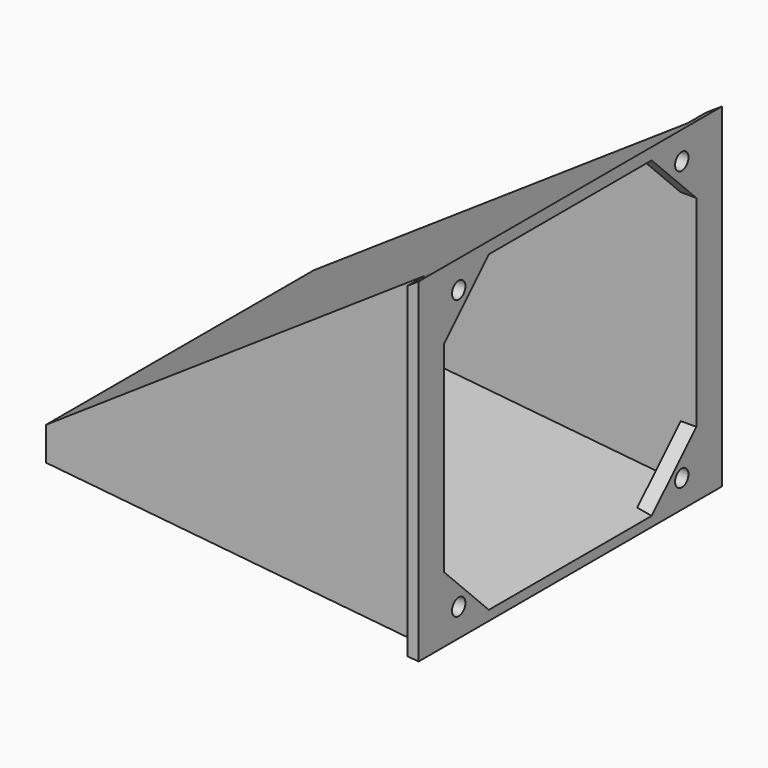
from build123d import *

# Parameters (mm, degrees)
F1_DEPTH  = 60
F2_T      = -1.75
F4_DEPTH  = 2.8
F5_R      = 1.5
F6_DEPTH  = 3
F8_DEPTH  = 4
F10_DEPTH = 4


with BuildPart() as f1:
    # F0 (on Front) → F1 (new body)
    with BuildSketch(Plane.XZ):
        Polygon((0, 50), (-70, 3), (-70, -3), (0, -10), align=None)
    extrude(amount=F1_DEPTH)

    # F2
    f2_openings = [f1.faces().sort_by_distance(p)[0] for p in [
        (0, -30, 20),
        (-70, -30, 0),
    ]]
    offset(amount=F2_T, openings=f2_openings)

    # F3 (on face) → F4 (join)
    with BuildSketch(Plane.YZ):
        Polygon((-58.25, 37.892128), (-48.25, 47.892128), (-58.25, 47.892128), align=None)
        Polygon((-1.75, 47.892128), (-11.75, 47.892128), (-1.75, 37.892128), align=None)
        Polygon((-48.25, -8.241272), (-58.25, 1.758728), (-58.25, -8.241272), align=None)
        Polygon((-1.75, 1.758728), (-11.75, -8.241272), (-1.75, -8.241272), align=None)
    extrude(amount=-F4_DEPTH)

    # F5 (on face) → F6 (cut)
    with BuildSketch(Plane.YZ):
        with Locations((-55, 45)):
            Circle(F5_R)
        with Locations((-5, 45)):
            Circle(F5_R)
        with Locations((-55, -5)):
            Circle(F5_R)
        with Locations((-5, -5)):
            Circle(F5_R)
    extrude(amount=-F6_DEPTH, mode=Mode.SUBTRACT)

    # F7 (on face) → F8 (join)
    with BuildSketch(Plane.XZ.offset(60)):
        Polygon((0, 50), (-1.990074, 48.663807), (-1.990074, -9.800993), (0, -10), align=None)
    extrude(amount=F8_DEPTH)

    # F9 (on face) → F10 (join)
    with BuildSketch(Plane(origin=(0, 0, 0), x_dir=(-1, 0, 0), z_dir=(0, 1, 0))):
        Polygon((2.985112, -9.701489), (2.985112, 47.995711), (0, 50), (0, -10), align=None)
    extrude(amount=F10_DEPTH)


solid = f1.part
